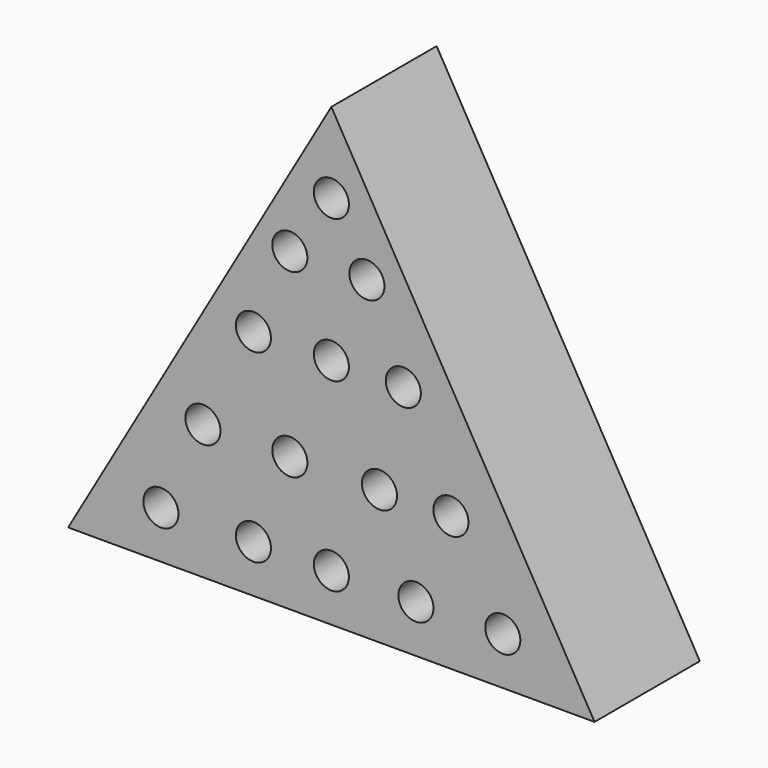
from build123d import *

# Parameters (mm, degrees)
F1_DEPTH = 19.05
F2_R     = 2.54
F3_DEPTH = 9.525
F4_DEPTH = 9.525


with BuildPart() as f1:
    # F0 (on Front) → F1 (new body)
    with BuildSketch(Plane.XZ):
        Polygon((-38.1, 65.991136), (-76.2, 0), (0, 0), align=None)
    extrude(amount=F1_DEPTH)

    # F2 (on face) → F3 (cut)
    with BuildSketch(Plane.XZ.offset(19.05)):
        with Locations((-62.770836, 6.895666)):
            Circle(F2_R)
    extrude(amount=-F3_DEPTH, mode=Mode.SUBTRACT)

    # F2 (on face) → F4 (cut)
    with BuildSketch(Plane.XZ.offset(19.05)):
        with Locations((-38.1, 6.895666)):
            Circle(F2_R)
        with Locations((-62.770836, 6.895666)):
            Circle(F2_R)
        with Locations((-49.385134, 6.895666)):
            Circle(F2_R)
        with Locations((-25.858745, 6.895666)):
            Circle(F2_R)
        with Locations((-13.284297, 6.895666)):
            Circle(F2_R)
        with Locations((-56.686427, 19.470114)):
            Circle(F2_R)
        with Locations((-44.111978, 19.470114)):
            Circle(F2_R)
        with Locations((-31.131901, 19.470114)):
            Circle(F2_R)
        with Locations((-20.788403, 19.470114)):
            Circle(F2_R)
        with Locations((-38.1, 33.667073)):
            Circle(F2_R)
        with Locations((-49.385134, 33.667073)):
            Circle(F2_R)
        with Locations((-27.684068, 33.667073)):
            Circle(F2_R)
        with Locations((-44.111978, 45.633078)):
            Circle(F2_R)
        with Locations((-38.1, 54.354072)):
            Circle(F2_R)
        with Locations((-32.957226, 45.633078)):
            Circle(F2_R)
    extrude(amount=-F4_DEPTH, mode=Mode.SUBTRACT)


solid = f1.part
